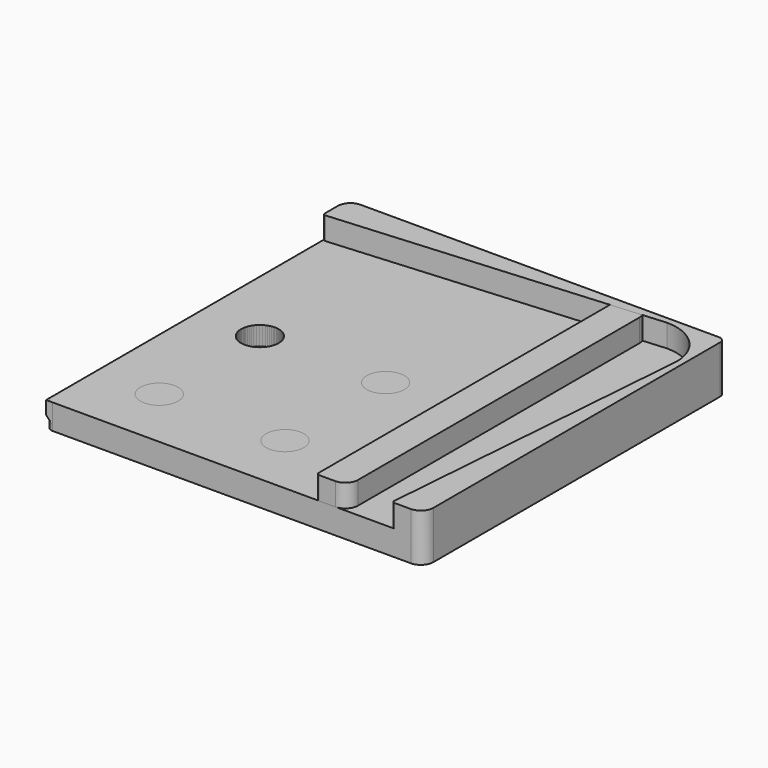
from build123d import *

# Parameters (mm, degrees)
FACE002_W        = 60
FACE002_H        = 5
EXTRUDE002_DEPTH = 3.6
SKETCH001_R      = 3
EXTRUDE001_DEPTH = 3
SKETCH_W         = 48
SKETCH_H         = 60
EXTRUDE_DEPTH    = 4
FILLET_R         = 2
FILLET001_R      = 0.4
CHAMFER_SIZE     = 1.9
EXTRUDE005_DEPTH = 3.6
FACE004_R        = 3
EXTRUDE004_DEPTH = 3
FACE003_W        = 60
FACE003_H        = 60
EXTRUDE003_DEPTH = 4
FILLET002_1_R    = 2
FILLET002_2_R    = 1
FILLET003_R      = 0.4


with BuildPart() as extrude002:
    # Face002 → Extrude002 (new body)
    with BuildSketch(Plane(origin=(45.5, 30, 4), x_dir=(0, 1, 0), z_dir=(0, 0, 1))):
        Rectangle(FACE002_W, FACE002_H)
    extrude(amount=EXTRUDE002_DEPTH)


with BuildPart() as extrude001:
    # Sketch001 (on Face6 of Extrude) → Extrude001 (new body)
    with BuildSketch(Plane.XY.offset(4)):
        with Locations((20, 50)):
            Circle(SKETCH001_R)
        with Locations((20, 10)):
            Circle(SKETCH001_R)
        with Locations((10, 30)):
            Circle(SKETCH001_R)
    extrude(amount=-EXTRUDE001_DEPTH)


with BuildPart() as straight:
    # Sketch → Extrude (new body)
    with BuildSketch(Plane.XY):
        with Locations((24, 30)):
            Rectangle(SKETCH_W, SKETCH_H)
    extrude(amount=EXTRUDE_DEPTH)

    # Cut: cut Extrude001
    add(extrude001.part, mode=Mode.SUBTRACT)

    # Fusion: union Extrude002
    add(extrude002.part)

    # Fillet
    fillet_edges = [straight.edges().sort_by_distance(p)[0] for p in [
        (48, 60, 5.8),
        (48, 0, 5.8),
        (48, 60, 2),
        (48, 0, 2),
    ]]
    fillet(fillet_edges, radius=FILLET_R)

    # Fillet001
    fillet001_edges = [straight.edges().sort_by_distance(p)[0] for p in [
        (43, 60, 5.8),
        (43, 0, 5.8),
    ]]
    fillet(fillet001_edges, radius=FILLET001_R)

    # Chamfer
    chamfer_edges = [straight.edges().sort_by_distance(p)[0] for p in [
        (0, 30, 0),
    ]]
    chamfer(chamfer_edges, length=CHAMFER_SIZE)


with BuildPart() as extrude005:
    # Face005 → Extrude005 (new body)
    with BuildSketch(Plane(origin=(40.670446, 40.670446, 4), x_dir=(0, 1, 0), z_dir=(0, 0, 1))):
        with BuildLine():
            Line((10.879807, -18.329554), (-40.670446, -14.329554))
            Line((-40.670446, -14.329554), (-40.670446, -19.329554))
            Line((-40.670446, -19.329554), (19.329554, -19.329554))
            Line((19.329554, -19.329554), (19.329554, 40.670446))
            Line((19.329554, 40.670446), (14.329554, 40.670446))
            Line((14.329554, 40.670446), (18.329554, -10.879807))
            ThreePointArc((18.329554, -10.879807), (16.147574, -16.147574), (10.879807, -18.329554))
        make_face()
    extrude(amount=EXTRUDE005_DEPTH)


with BuildPart() as extrude004:
    # Face004 → Extrude004 (new body)
    with BuildSketch(Plane(origin=(30, 10, 0), x_dir=(0, 1, 0), z_dir=(0, 0, 1))):
        Circle(FACE004_R)
        with Locations((20, 0)):
            Circle(FACE004_R)
        with Locations((20, 20)):
            Circle(FACE004_R)
        with Locations((0, 20)):
            Circle(FACE004_R)
    extrude(amount=EXTRUDE004_DEPTH)


with BuildPart() as extrude004_1:
    # Extrude004 placement: moved
    add(extrude004.part.moved(Location((0, 0, 1))))


with BuildPart() as corner:
    # Face003 → Extrude003 (new body)
    with BuildSketch(Plane(origin=(30, 30, 0), x_dir=(0, 1, 0), z_dir=(0, 0, 1))):
        Rectangle(FACE003_W, FACE003_H)
    extrude(amount=EXTRUDE003_DEPTH)

    # Cut001: cut Extrude004
    add(extrude004_1.part, mode=Mode.SUBTRACT)

    # Fusion001: union Extrude005
    add(extrude005.part)

    # Fillet002 1
    fillet002_1_edges = [corner.edges().sort_by_distance(p)[0] for p in [
        (60, 0, 5.8),
        (60, 0, 2),
        (0, 60, 2),
        (0, 60, 5.8),
    ]]
    fillet(fillet002_1_edges, radius=FILLET002_1_R)

    # Fillet002 2
    fillet002_2_edges = [corner.edges().sort_by_distance(p)[0] for p in [
        (60, 60, 5.8),
        (0, 0, 2),
        (60, 60, 2),
    ]]
    fillet(fillet002_2_edges, radius=FILLET002_2_R)

    # Fillet003
    fillet003_edges = [corner.edges().sort_by_distance(p)[0] for p in [
        (55, 0, 5.8),
        (0, 55, 5.8),
    ]]
    fillet(fillet003_edges, radius=FILLET003_R)


solid = Compound([straight.part, corner.part])
